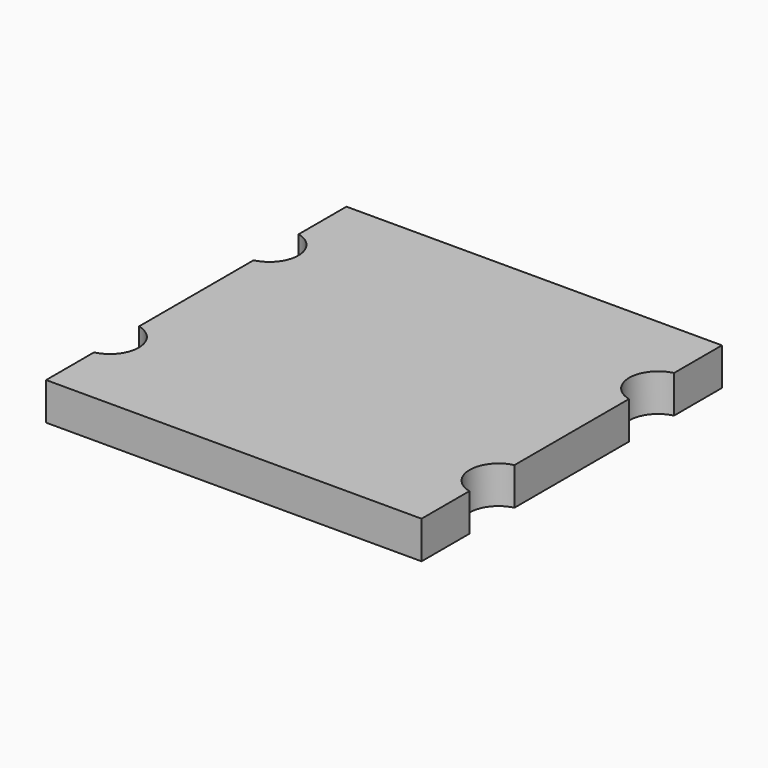
from build123d import *

# Parameters (mm, degrees)
SKETCH_W     = 1.6
SKETCH_H     = 1.6
PAD_DEPTH    = 0.16
POCKET_DEPTH = 0.161


with BuildPart() as part:
    # Sketch → Pad (new body)
    with BuildSketch(Plane.XY):
        Rectangle(SKETCH_W, SKETCH_H)
    extrude(amount=PAD_DEPTH)

    # Sketch001 (on Face6 of Pad) → Pocket (cut, through all)
    with BuildSketch(Plane.XY.offset(0.16)):
        with BuildLine():
            ThreePointArc((-0.8, 0.305), (-0.705, 0.425), (-0.8, 0.545))
            Line((-0.8, 0.545), (-0.8, 0.305))
        make_face()
        with BuildLine():
            ThreePointArc((0.8, 0.545), (0.705, 0.425), (0.8, 0.305))
            Line((0.8, 0.545), (0.8, 0.305))
        make_face()
        with BuildLine():
            ThreePointArc((-0.8, -0.545), (-0.705, -0.425), (-0.8, -0.305))
            Line((-0.8, -0.305), (-0.8, -0.545))
        make_face()
        with BuildLine():
            ThreePointArc((0.8, -0.305), (0.705, -0.425), (0.8, -0.545))
            Line((0.8, -0.305), (0.8, -0.545))
        make_face()
    extrude(amount=-POCKET_DEPTH, mode=Mode.SUBTRACT)


solid = part.part
